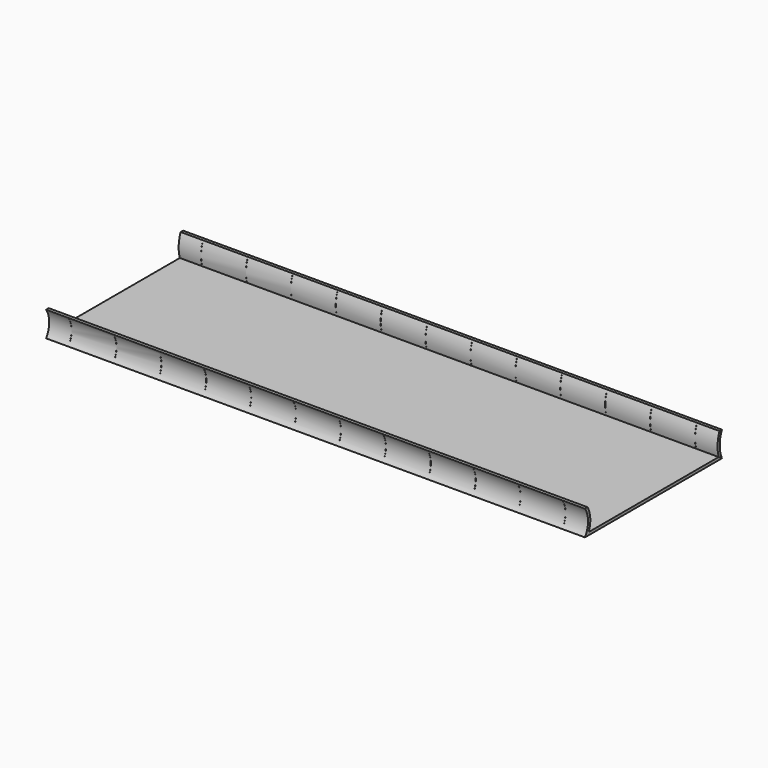
from build123d import *

# Parameters (mm, degrees)
F1_DEPTH      = 1219.2
F2_R          = 1.5875
F3_DEPTH      = 1219.201
F4_W          = 0.3175
F4_H          = 44.45
F5_DEPTH      = 193.3445428183
F5_DEPTH_BACK = 192.6822115509


with BuildPart() as f1:
    # F0 (on Right) → F1 (new body)
    with BuildSketch(Plane.YZ):
        with BuildLine():
            ThreePointArc((-193.675, 57.15), (-184.8763020632, 28.575), (-193.675, 0))
            Line((-193.675, 0), (193.675, 0))
            ThreePointArc((193.675, 0), (187.5626801821, 28.575), (193.675, 57.15))
            Line((193.675, 57.15), (186.7733895925, 57.15))
            ThreePointArc((186.7733895925, 57.15), (181.2871488449, 31.94300811), (184.5258543835, 6.35))
            Line((184.5258543835, 6.35), (-183.0248835163, 6.35))
            ThreePointArc((-183.0248835163, 6.35), (-178.6364166438, 32.1209796041), (-186.1829502369, 57.15))
            Line((-186.1829502369, 57.15), (-193.675, 57.15))
        make_face()
    extrude(amount=-F1_DEPTH)

    # F2 (on face) → F3 (cut, through all)
    with BuildSketch(Plane.YZ):
        with Locations((190.5, 53.975)):
            Circle(F2_R)
        with Locations((190.5, 3.175)):
            Circle(F2_R)
    extrude(amount=-F3_DEPTH, mode=Mode.SUBTRACT)

    # F4 (on Front) → F5 (cut, two sides)
    with BuildSketch(Plane.XZ) as f5_sk:
        with Locations((-50.95875, 31.75)):
            Rectangle(F4_W, F4_H)
        with Locations((-152.55875, 31.75)):
            Rectangle(F4_W, F4_H)
        with Locations((-254.15875, 31.75)):
            Rectangle(F4_W, F4_H)
        with Locations((-355.75875, 31.75)):
            Rectangle(F4_W, F4_H)
        with Locations((-457.35875, 31.75)):
            Rectangle(F4_W, F4_H)
        with Locations((-558.95875, 31.75)):
            Rectangle(F4_W, F4_H)
        with Locations((-660.55875, 31.75)):
            Rectangle(F4_W, F4_H)
        with Locations((-762.15875, 31.75)):
            Rectangle(F4_W, F4_H)
        with Locations((-863.75875, 31.75)):
            Rectangle(F4_W, F4_H)
        with Locations((-965.35875, 31.75)):
            Rectangle(F4_W, F4_H)
        with Locations((-1066.95875, 31.75)):
            Rectangle(F4_W, F4_H)
        with Locations((-1168.55875, 31.75)):
            Rectangle(F4_W, F4_H)
    extrude(amount=-F5_DEPTH, mode=Mode.SUBTRACT)
    extrude(f5_sk.sketch, amount=F5_DEPTH_BACK, mode=Mode.SUBTRACT)


solid = f1.part
